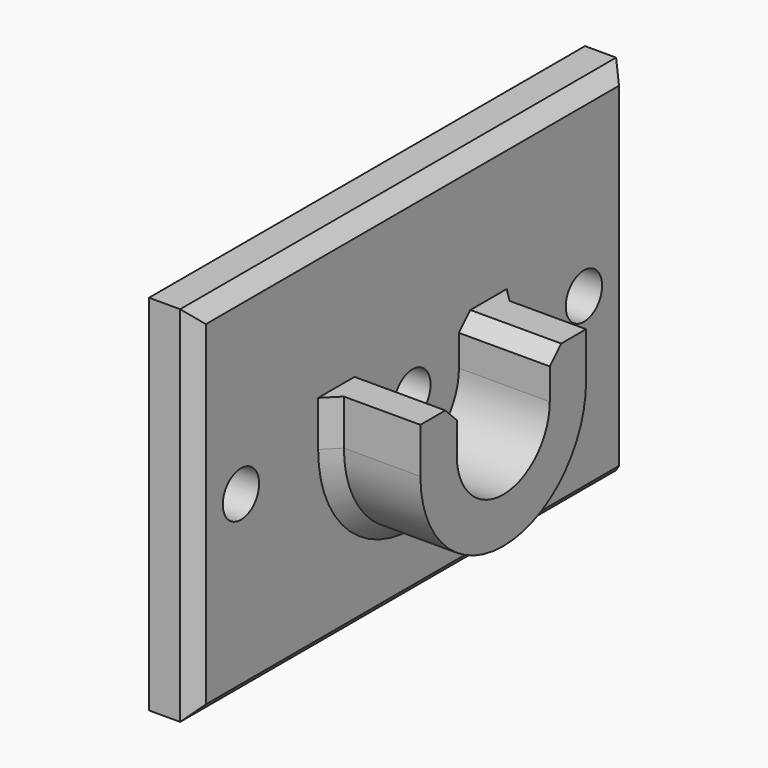
from build123d import *

# Parameters (mm, degrees)
F0_W     = 38.1
F0_H     = 25.4
F1_DEPTH = 3.175
F3_DEPTH = 6.35
F4_R     = 1.5875
F5_DEPTH = 3.175
F6_SIZE  = 1


with BuildPart() as f1:
    # F0 (on Right) → F1 (new body)
    with BuildSketch(Plane.YZ):
        Rectangle(F0_W, F0_H)
    extrude(amount=F1_DEPTH)

    # F2 (on face) → F3 (join)
    with BuildSketch(Plane.YZ.offset(3.175)):
        with BuildLine():
            ThreePointArc((4.064, 0), (0, -4.064), (-4.064, 0))
            Line((-4.064, 0), (-4.064, 3.175))
            Line((-4.064, 3.175), (-7.239, 3.175))
            Line((-7.239, 3.175), (-7.239, 0))
            ThreePointArc((-7.239, 0), (0, -7.239), (7.239, 0))
            Line((7.239, 0), (7.239, 3.175))
            Line((7.239, 3.175), (4.064, 3.175))
            Line((4.064, 3.175), (4.064, 0))
        make_face()
    extrude(amount=F3_DEPTH)

    # F4 (on face) → F5 (cut, through all)
    with BuildSketch(Plane.YZ.offset(3.175)):
        with Locations((-14.986, 0)):
            Circle(F4_R)
        with Locations((14.986, 0)):
            Circle(F4_R)
        Circle(F4_R)
    extrude(amount=-F5_DEPTH, mode=Mode.SUBTRACT)

    # F6
    f6_edges = [f1.edges().sort_by_distance(p)[0] for p in [
        (6.35, -4.064, 3.175),
        (6.35, 4.064, 3.175),
        (3.175, -19.05, 0),
        (3.175, 0, 12.7),
        (3.175, 19.05, 0),
        (3.175, 0, -12.7),
        (3.175, 0, -7.239),
        (3.175, -7.239, 1.5875),
        (3.175, 7.239, 1.5875),
    ]]
    chamfer(f6_edges, length=F6_SIZE)


solid = f1.part
